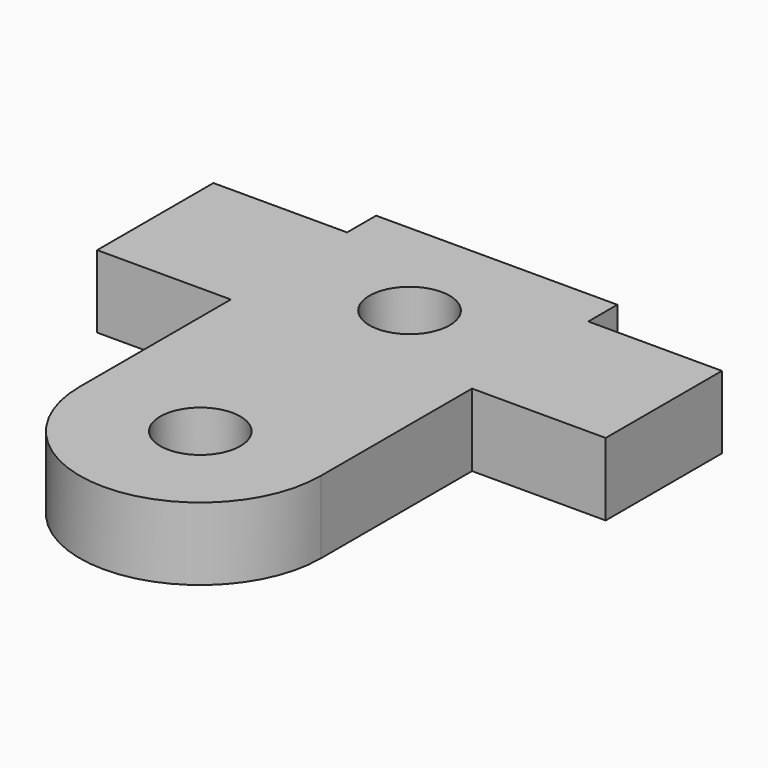
from build123d import *

# Parameters (mm, degrees)
F1_DEPTH = 3.175
F2_R     = 1.7526
F3_DEPTH = 3.175
F4_R     = 1.7526
F5_DEPTH = 25.4


with BuildPart() as f1:
    # F0 (on Top) → F1 (new body)
    with BuildSketch(Plane.XY):
        Polygon((-5.2705, 3.175), (-11.1125, 3.175), (-11.1125, -3.175), (-5.2705, -3.175), (-5.2705, -4.7625), (5.2705, -4.7625), (5.2705, -3.175), (11.1125, -3.175), (11.1125, 3.175), (5.2705, 3.175), (5.2705, 4.7625), (-5.2705, 4.7625), align=None)
    extrude(amount=F1_DEPTH)

    # F2 (on face) → F3 (join, through all)
    with BuildSketch(Plane(origin=(0, 0, 0), x_dir=(1, 0, 0), z_dir=(0, 0, -1))):
        with BuildLine():
            Line((5.2705, 4.7625), (5.2705, 11.43))
            ThreePointArc((5.2705, 11.43), (0, 16.7005), (-5.2705, 11.43))
            Line((-5.2705, 11.43), (-5.2705, 4.7625))
            Line((-5.2705, 4.7625), (5.2705, 4.7625))
        make_face()
        with Locations((0, 11.43)):
            Circle(F2_R, mode=Mode.SUBTRACT)
    extrude(amount=-F3_DEPTH)

    # F4 (on face) → F5 (cut)
    with BuildSketch(Plane(origin=(0, 0, 0), x_dir=(1, 0, 0), z_dir=(0, 0, -1))):
        Circle(F4_R)
    extrude(amount=-F5_DEPTH, mode=Mode.SUBTRACT)


solid = f1.part
